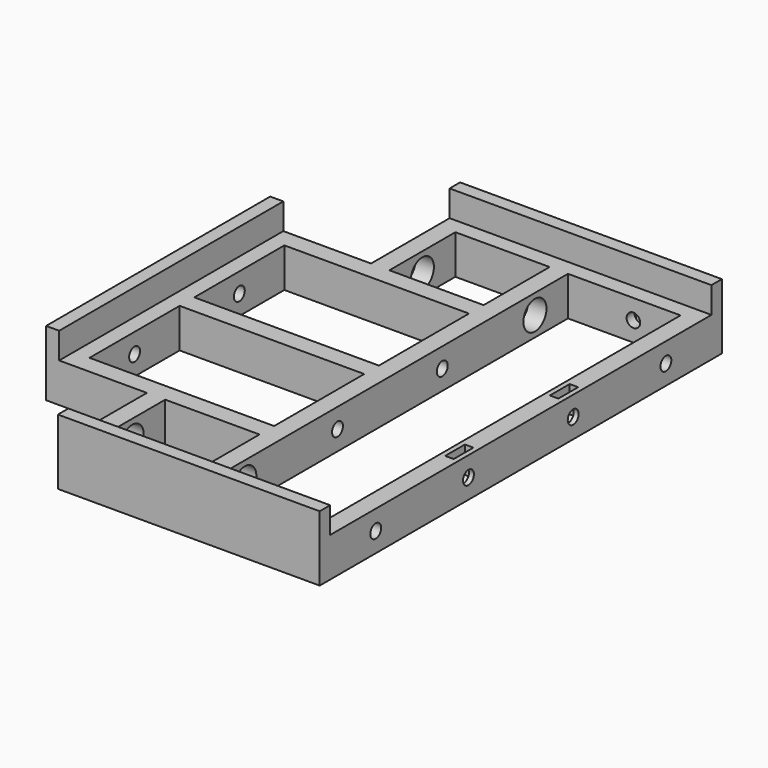
from build123d import *

# Parameters (mm, degrees)
SKETCH_W           = 43
SKETCH_H           = 180
SKETCH_W_2         = 75.5
SKETCH_H_2         = 43
SKETCH_W_3         = 36
SKETCH_H_3         = 36.5
PAD_DEPTH          = 15
SKETCH002_W        = 100
SKETCH002_H        = 5
SKETCH002_W_2      = 5
SKETCH002_H_2      = 107
PAD001_DEPTH       = 10
SKETCH003_W        = 5
SKETCH003_H        = 93
SKETCH003_W_2      = 86
SKETCH003_H_2      = 5
PAD002_DEPTH       = 15
SKETCH004_R        = 2.6
POCKET_DEPTH       = 138.5
SKETCH005_R        = 5.5
POCKET001_DEPTH    = 88.5
POCKET005_START    = -1.875
POCKET005_DEPTH    = 3.25
SKETCH010_R        = 4.5
POCKET006_DEPTH    = 3.3
CHAMFER001_1_SIZE2 = 3
CHAMFER001_1_SIZE  = 1.75
CHAMFER001_2_SIZE2 = 3
CHAMFER001_2_SIZE  = 1.75
SKETCH014_R        = 2.6
POCKET008_DEPTH    = 20
POCKET011_START    = -3.75
POCKET011_DEPTH    = 3.5
POCKET012_START    = -3.75
POCKET012_DEPTH    = 3.5


with BuildPart() as part:
    # Sketch → Pad (new body)
    with BuildSketch(Plane.XY):
        Polygon((124, 0), (124, 180), (124, 186), (24, 186), (24, 180), (24, 143.5), (-8.5, 143.5), (-14.5, 143.5), (-14.5, 36.5), (-8.5, 36.5), (24, 36.5), (24, 0), (24, -6), (124, -6), align=None)
        with Locations((95.5, 90)):
            Rectangle(SKETCH_W, SKETCH_H, mode=Mode.SUBTRACT)
        with Locations((29.25, 115)):
            Rectangle(SKETCH_W_2, SKETCH_H_2, mode=Mode.SUBTRACT)
        with Locations((29.25, 65)):
            Rectangle(SKETCH_W_2, SKETCH_H_2, mode=Mode.SUBTRACT)
        with Locations((49, 161.75)):
            Rectangle(SKETCH_W_3, SKETCH_H_3, mode=Mode.SUBTRACT)
        with Locations((49, 18.25)):
            Rectangle(SKETCH_W_3, SKETCH_H_3, mode=Mode.SUBTRACT)
    extrude(amount=PAD_DEPTH)

    # Sketch002 (on Face25 of Pad) → Pad001 (join)
    with BuildSketch(Plane.XY.offset(15)):
        with Locations((74, 183.5)):
            Rectangle(SKETCH002_W, SKETCH002_H)
        with Locations((74, -3.5)):
            Rectangle(SKETCH002_W, SKETCH002_H)
        with Locations((-12, 90)):
            Rectangle(SKETCH002_W_2, SKETCH002_H_2)
    extrude(amount=PAD001_DEPTH)

    # Sketch003 (on Face4 of Pad001) → Pad002 (join)
    with BuildSketch(Plane(origin=(0, 0, 0), x_dir=(1, 0, 0), z_dir=(0, 0, -1))):
        with Locations((-6, -90)):
            Rectangle(SKETCH003_W, SKETCH003_H)
        with Locations((74, -177.5)):
            Rectangle(SKETCH003_W_2, SKETCH003_H_2)
        with Locations((74, -2.5)):
            Rectangle(SKETCH003_W_2, SKETCH003_H_2)
    extrude(amount=-PAD002_DEPTH)

    # Sketch004 (on Face35 of Pad002) → Pocket (cut)
    with BuildSketch(Plane(origin=(-14.5, 0, 0), x_dir=(0, -1, 0), z_dir=(-1, 0, 0))):
        with Locations((-115, 7.5)):
            Circle(SKETCH004_R)
        with Locations((-20.75, 7.5)):
            Circle(SKETCH004_R)
        with Locations((-65, 7.5)):
            Circle(SKETCH004_R)
        with Locations((-159.25, 7.5)):
            Circle(SKETCH004_R)
    extrude(amount=-POCKET_DEPTH, mode=Mode.SUBTRACT)

    # Sketch005 (on Face17 of Pocket) → Pocket001 (cut)
    with BuildSketch(Plane(origin=(-14.5, 0, 0), x_dir=(0, -1, 0), z_dir=(-1, 0, 0))):
        with Locations((-159.25, 7.5)):
            Circle(SKETCH005_R)
        with Locations((-20.75, 7.5)):
            Circle(SKETCH005_R)
    extrude(amount=-POCKET001_DEPTH, mode=Mode.SUBTRACT)

    # Sketch009 (on Face3 of Pocket001) → Pocket005 (cut)
    with BuildSketch(Plane.YZ.offset(124).offset(POCKET005_START)):
        Polygon((60.275, 10.22798), (60.275, 4.77202), (65, 2.04404), (69.725, 4.77202), (69.725, 10.22798), (69.725, 15), (60.275, 15), align=None)
        Polygon((110.275, 10.22798), (110.275, 4.77202), (115, 2.04404), (119.725, 4.77202), (119.725, 10.22798), (119.725, 15), (110.275, 15), align=None)
    extrude(amount=-POCKET005_DEPTH, mode=Mode.SUBTRACT)

    # Sketch010 (on Face21 of Pocket005) → Pocket006 (cut)
    with BuildSketch(Plane(origin=(117, 0, 0), x_dir=(0, -1, 0), z_dir=(-1, 0, 0))):
        with Locations((-159.25, 7.5)):
            Circle(SKETCH010_R)
        with Locations((-20.75, 7.5)):
            Circle(SKETCH010_R)
    extrude(amount=-POCKET006_DEPTH, mode=Mode.SUBTRACT)

    # Chamfer001 1
    chamfer001_1_edges = [part.edges().sort_by_distance(p)[0] for p in [
        (120.3, 163.75, 7.5),
    ]]
    chamfer001_1_side = part.faces().sort_by_distance((120.3, 163.622721, 7.5))[0]
    chamfer(chamfer001_1_edges, length=CHAMFER001_1_SIZE, length2=CHAMFER001_1_SIZE2, reference=chamfer001_1_side)

    # Chamfer001 2
    chamfer001_2_edges = [part.edges().sort_by_distance(p)[0] for p in [
        (120.3, 25.25, 7.5),
    ]]
    chamfer001_2_side = part.faces().sort_by_distance((120.3, 25.122721, 7.5))[0]
    chamfer(chamfer001_2_edges, length=CHAMFER001_2_SIZE, length2=CHAMFER001_2_SIZE2, reference=chamfer001_2_side)

    # Sketch014 (on Face10 of Chamfer001) → Pocket008 (cut)
    with BuildSketch(Plane(origin=(0, 186, 0), x_dir=(-1, 0, 0), z_dir=(0, 1, 0))):
        with Locations((-99, 7.5)):
            Circle(SKETCH014_R)
    extrude(amount=-POCKET008_DEPTH, mode=Mode.SUBTRACT)

    # Sketch018 (on Face25 of Pocket008) → Pocket011 (cut)
    with BuildSketch(Plane(origin=(-14.5, 0, 0), x_dir=(0, -1, 0), z_dir=(-1, 0, 0)).offset(POCKET011_START)):
        Polygon((-115, 12.95596), (-119.725, 10.22798), (-119.725, 4.77202), (-119.725, 0), (-110.275, 0), (-110.275, 4.77202), (-110.275, 10.22798), align=None)
        Polygon((-69.725, 10.22798), (-69.725, 4.77202), (-69.725, 0), (-60.275, 0), (-60.275, 4.77202), (-60.275, 10.22798), (-65, 12.95596), align=None)
    extrude(amount=-POCKET011_DEPTH, mode=Mode.SUBTRACT)

    # Sketch019 (on Face10 of Pocket011) → Pocket012 (cut)
    with BuildSketch(Plane(origin=(0, 186, 0), x_dir=(-1, 0, 0), z_dir=(0, 1, 0)).offset(POCKET012_START)):
        Polygon((-94.275, 10.22798), (-99, 12.95596), (-103.725, 10.22798), (-103.725, 4.77202), (-103.725, 0), (-94.275, 0), (-94.275, 4.77202), align=None)
    extrude(amount=-POCKET012_DEPTH, mode=Mode.SUBTRACT)


solid = part.part
